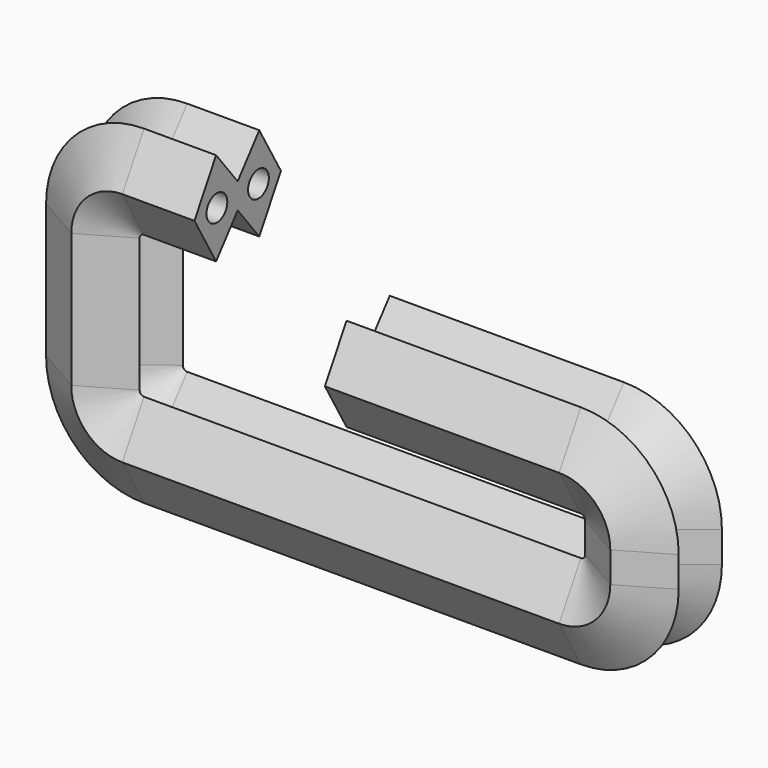
from build123d import *

# Parameters (mm, degrees)
F0_R = 5.07925


with BuildPart() as f2:
    # F2: sweep along a path in F1
    with BuildLine(Plane.XZ) as f2_path:
        Line((0, 0), (91.635493, 0))
        ThreePointArc((91.635493, 0), (105.777628, -5.857864), (111.635493, -20))
        Line((111.635493, -20), (111.635493, -31.952988))
        ThreePointArc((111.635493, -31.952988), (105.777628, -46.095124), (91.635493, -51.952988))
        Line((91.635493, -51.952988), (-79.216793, -51.952988))
        ThreePointArc((-79.216793, -51.952988), (-93.358929, -46.095124), (-99.216793, -31.952988))
        Line((-99.216793, -31.952988), (-99.216793, 20.399153))
        ThreePointArc((-99.216793, 20.399153), (-93.358929, 34.541288), (-79.216793, 40.399153))
        Line((-79.216793, 40.399153), (-51.026091, 40.399153))
    # F0 (on Right) → F2 (sweep)
    with BuildSketch(Plane.YZ):
        Polygon((21.132289, 0), (10.566145, 18.3011), (0, 5), (-10.566145, 18.3011), (-21.132289, 0), (-10.566145, -18.3011), (0, -5), (10.566145, -18.3011), align=None)
        with Locations((-10.158501, 0)):
            Circle(F0_R, mode=Mode.SUBTRACT)
        with Locations((10.158501, 0)):
            Circle(F0_R, mode=Mode.SUBTRACT)
    sweep(path=f2_path.line)


solid = f2.part
